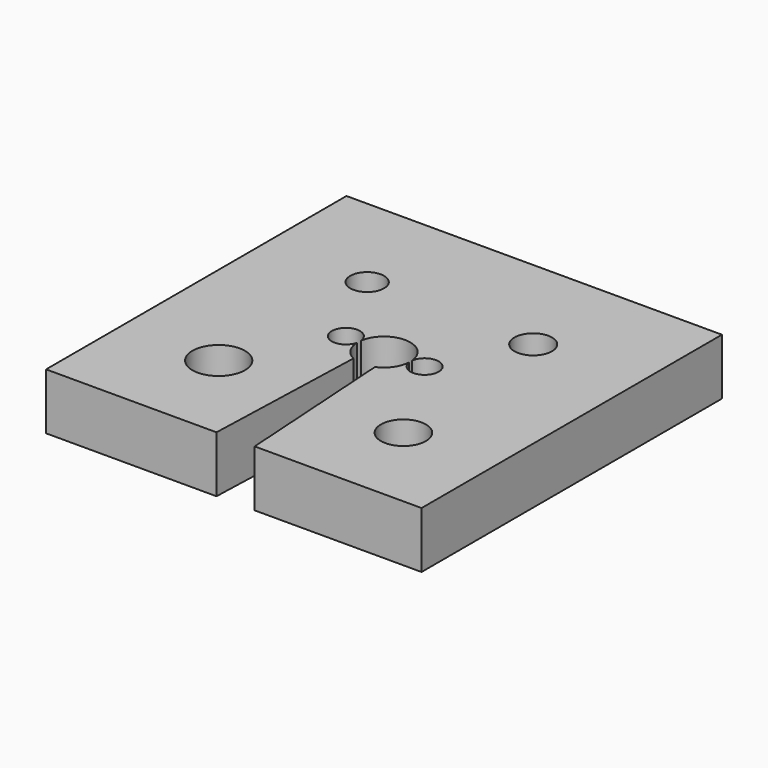
from build123d import *

# Parameters (mm, degrees)
F0_R     = 1.4
F0_R_2   = 1.2
F0_R_3   = 0.9
F0_R_4   = 1
F1_DEPTH = 3


with BuildPart() as f1:
    # F0 (on Top) → F1 (new body)
    with BuildSketch(Plane.XY):
        with BuildLine():
            Line((0, 20), (0, 0))
            Line((0, 0), (9.077811, 0))
            Line((9.077811, 0), (9.367633, 8.750956))
            ThreePointArc((9.367633, 8.750956), (8.8207, 9.245512), (8.600916, 9.94937))
            ThreePointArc((8.600916, 9.94937), (7.122598, 10.166569), (8.616104, 10.211733))
            ThreePointArc((8.616104, 10.211733), (10.04154, 11.399384), (11.394019, 10.129272))
            ThreePointArc((11.394019, 10.129272), (12.186194, 10.781049), (12.887764, 10.032614))
            ThreePointArc((12.887764, 10.032614), (12.197606, 9.285005), (11.397314, 9.913313))
            ThreePointArc((11.397314, 9.913313), (11.143325, 9.192035), (10.548233, 8.711807))
            Line((10.548233, 8.711807), (11.110487, 0))
            Line((11.110487, 0), (20, 0))
            Line((20, 0), (20, 20))
            Line((20, 20), (0, 20))
        make_face()
        with Locations((5.107899, 5.107899)):
            Circle(F0_R, mode=Mode.SUBTRACT)
        with Locations((15.17347, 4.82653)):
            Circle(F0_R_2, mode=Mode.SUBTRACT)
        with Locations((5.518253, 14.481747)):
            Circle(F0_R_3, mode=Mode.SUBTRACT)
        with Locations((14.415422, 14.415422)):
            Circle(F0_R_4, mode=Mode.SUBTRACT)
    extrude(amount=F1_DEPTH)


solid = f1.part
